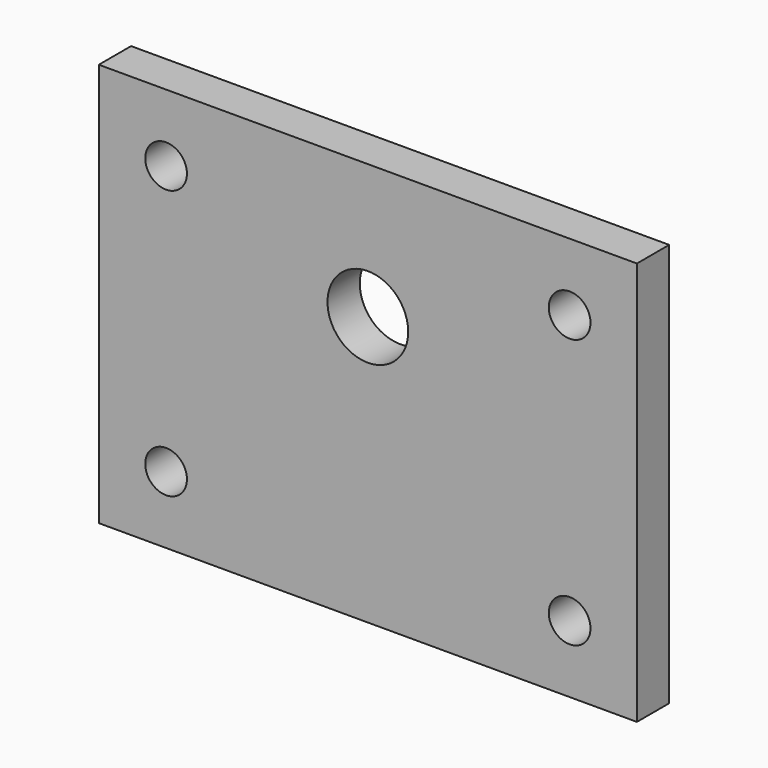
from build123d import *

# Parameters (mm, degrees)
F0_W     = 40
F0_H     = 30
F0_R     = 1.55
F0_R_2   = 3
F1_DEPTH = 3


with BuildPart() as f1:
    # F0 (on Front) → F1 (new body)
    with BuildSketch(Plane.XZ):
        Rectangle(F0_W, F0_H)
        with Locations((-15, -10)):
            Circle(F0_R, mode=Mode.SUBTRACT)
        with Locations((15, -10)):
            Circle(F0_R, mode=Mode.SUBTRACT)
        with Locations((-15, 10)):
            Circle(F0_R, mode=Mode.SUBTRACT)
        with Locations((0, 5)):
            Circle(F0_R_2, mode=Mode.SUBTRACT)
        with Locations((15, 10)):
            Circle(F0_R, mode=Mode.SUBTRACT)
    extrude(amount=F1_DEPTH)


solid = f1.part
